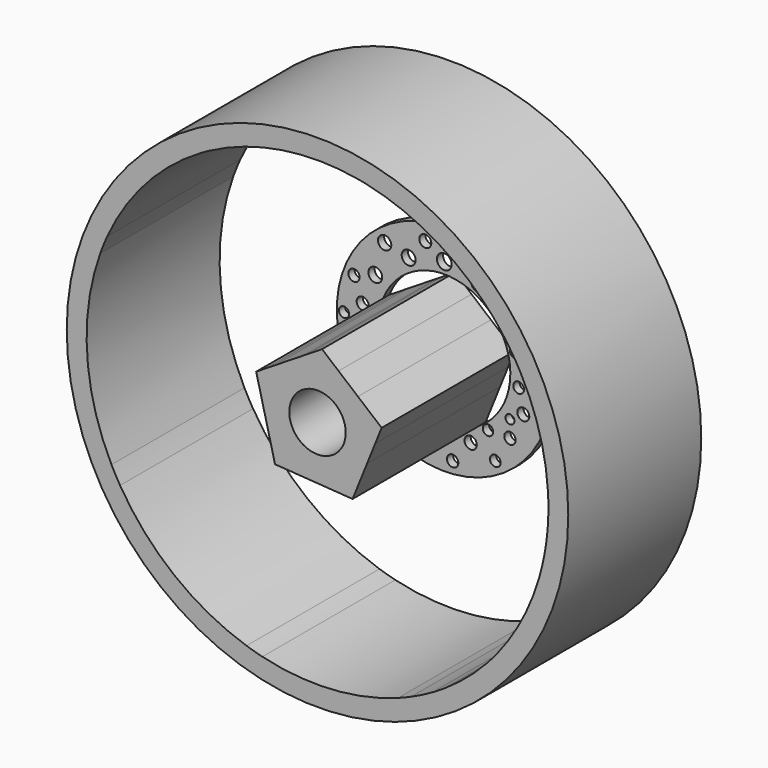
from build123d import *

# Parameters (mm, degrees)
F0_R     = 73.947957
F0_R_2   = 8.318346
F1_DEPTH = 49.022
F2_R     = 31.693771
F2_R_2   = 1.854577
F2_R_3   = 2.171348
F2_R_4   = 2.023965
F2_R_5   = 1.854576
F2_R_6   = 1.936135
F2_R_7   = 2.11728
F2_R_8   = 1.812423
F2_R_9   = 1.679623
F2_R_10  = 1.584917
F2_R_11  = 1.535376
F2_R_12  = 1.67962
F2_R_13  = 1.318732
F2_R_14  = 1.769262
F2_R_15  = 1.500368
F2_R_16  = 1.769263
F2_R_17  = 1.679622
F2_R_18  = 2.052404
F2_R_19  = 1.96585
F2_R_20  = 2.052406
F2_R_21  = 19.479258
F2_R_22  = 1.62108
F2_R_23  = 2.045332
F2_R_24  = 1.975654
F2_R_25  = 2.182443
F2_R_26  = 2.197887
F2_R_27  = 1.965846
F2_R_28  = 2.367195
F3_DEPTH = 2.286


with BuildPart() as f1:
    # F0 (on Front) → F1 (new body)
    with BuildSketch(Plane.XZ):
        Circle(F0_R)
        with BuildLine():
            ThreePointArc((67.949275, 4.275622), (68.050056, 2.138867), (68.083661, 0))
            ThreePointArc((68.083661, 0), (68.050056, -2.138867), (67.949275, -4.275622))
            ThreePointArc((67.949275, -4.275622), (67.88803, -5.157543), (67.815339, -6.038594))
            ThreePointArc((67.815339, -6.038594), (67.564616, -8.390925), (67.232321, -10.733125))
            ThreePointArc((67.232321, -10.733125), (66.957023, -12.334583), (66.643585, -13.929015))
            ThreePointArc((66.643585, -13.929015), (66.004106, -16.69859), (65.249581, -19.439059))
            ThreePointArc((65.249581, -19.439059), (60.317841, -31.577571), (53.152306, -42.546648))
            ThreePointArc((53.152306, -42.546648), (51.550811, -44.473573), (49.8795, -46.340267))
            ThreePointArc((49.8795, -46.340267), (44.032832, -51.927783), (37.564874, -56.782613))
            ThreePointArc((37.564874, -56.782613), (35.748791, -57.943152), (33.896886, -59.045627))
            ThreePointArc((33.896886, -59.045627), (30.788356, -60.724476), (27.596924, -62.239816))
            ThreePointArc((27.596924, -62.239816), (25.710967, -63.042296), (23.801709, -63.787644))
            ThreePointArc((23.801709, -63.787644), (3.94679, -67.969168), (-16.258673, -66.113844))
            ThreePointArc((-16.258673, -66.113844), (-18.610992, -65.490578), (-20.939535, -64.783646))
            ThreePointArc((-20.939535, -64.783646), (-42.236877, -53.398793), (-58.220271, -35.295679))
            ThreePointArc((-58.220271, -35.295679), (-59.531908, -33.035387), (-60.755837, -30.726424))
            ThreePointArc((-60.755837, -30.726424), (-67.956903, -4.15262), (-64.045007, 23.10026))
            ThreePointArc((-64.045007, 23.10026), (-63.07225, 25.637397), (-61.999031, 28.133699))
            ThreePointArc((-61.999031, 28.133699), (-50.614011, 45.536873), (-34.506619, 58.69138))
            ThreePointArc((-34.506619, 58.69138), (-33.177367, 59.452899), (-31.831318, 60.184317))
            ThreePointArc((-31.831318, 60.184317), (-10.489442, 67.27077), (11.996772, 67.018373))
            ThreePointArc((11.996772, 67.018373), (13.150442, 66.801578), (14.300202, 66.564924))
            ThreePointArc((14.300202, 66.564924), (33.103005, 59.494335), (49.023989, 47.244401))
            ThreePointArc((49.023989, 47.244401), (50.857029, 45.265301), (52.610231, 43.215142))
            ThreePointArc((52.610231, 43.215142), (54.541157, 40.751038), (56.356771, 38.200776))
            ThreePointArc((56.356771, 38.200776), (58.223331, 35.29063), (59.939755, 32.289482))
            ThreePointArc((59.939755, 32.289482), (65.460638, 18.716031), (67.949275, 4.275622))
        make_face(mode=Mode.SUBTRACT)
        Polygon((14.629133, -5.894366), (17.004089, 0), (18.91164, 4.734322), (11.921751, 10.588209), (6.20758, 15.373708), (1.341411, 19.449024), (-2.592439, 16.985674), (-4.164272, 16.001403), (-12.64108, 10.693282), (-14.831899, 9.321406), (-18.082603, 7.285837), (-16.258673, 0), (-15.299838, -3.830147), (-12.517074, -14.94613), (-8.887038, -15.196496), (2.893255, -16.008989), (8.554056, -16.399418), (10.346626, -16.523053), align=None)
        Circle(F0_R_2, mode=Mode.SUBTRACT)
    extrude(amount=F1_DEPTH)

    # F2 (on Front) → F3 (join)
    with BuildSketch(Plane.XZ):
        Circle(F2_R)
        with Locations((-22.312371, -17.594337)):
            Circle(F2_R_2, mode=Mode.SUBTRACT)
        with Locations((-12.876304, -24.867972)):
            Circle(F2_R_3, mode=Mode.SUBTRACT)
        with Locations((-14.05581, -18.577261)):
            Circle(F2_R_4, mode=Mode.SUBTRACT)
        with Locations((-3.047063, -23.688463)):
            Circle(F2_R_5, mode=Mode.SUBTRACT)
        with Locations((-27.030407, -7.961683)):
            Circle(F2_R_6, mode=Mode.SUBTRACT)
        with Locations((-19.756768, -12.679718)):
            Circle(F2_R_7, mode=Mode.SUBTRACT)
        with Locations((-21.9192, -3.047064)):
            Circle(F2_R_8, mode=Mode.SUBTRACT)
        with Locations((2.45731, -28.209915)):
            Circle(F2_R_9, mode=Mode.SUBTRACT)
        with Locations((15.038734, -24.081634)):
            Circle(F2_R_10, mode=Mode.SUBTRACT)
        with Locations((7.765097, -21.722617)):
            Circle(F2_R_8, mode=Mode.SUBTRACT)
        with Locations((12.876304, -16.807998)):
            Circle(F2_R_11, mode=Mode.SUBTRACT)
        with Locations((19.363599, -16.807998)):
            Circle(F2_R_12, mode=Mode.SUBTRACT)
        with Locations((19.363599, -11.893379)):
            Circle(F2_R_13, mode=Mode.SUBTRACT)
        with Locations((23.295296, -9.337776)):
            Circle(F2_R_14, mode=Mode.SUBTRACT)
        with Locations((21.919202, -2.850479)):
            Circle(F2_R_10, mode=Mode.SUBTRACT)
        with Locations((-29.58601, 0)):
            Circle(F2_R_15, mode=Mode.SUBTRACT)
        with Locations((-24.081636, 4.029988)):
            Circle(F2_R_16, mode=Mode.SUBTRACT)
        with Locations((-26.637234, 10.517284)):
            Circle(F2_R_17, mode=Mode.SUBTRACT)
        with Locations((-20.346522, 12.679718)):
            Circle(F2_R_18, mode=Mode.SUBTRACT)
        with Locations((-17.594337, 21.9192)):
            Circle(F2_R_19, mode=Mode.SUBTRACT)
        with Locations((-10.517286, 20.346524)):
            Circle(F2_R_20, mode=Mode.SUBTRACT)
        with Locations((-5.602666, 26.244065)):
            Circle(F2_R_16, mode=Mode.SUBTRACT)
        Circle(F2_R_21, mode=Mode.SUBTRACT)
        with Locations((20.936279, 5.995835)):
            Circle(F2_R_22, mode=Mode.SUBTRACT)
        with Locations((28.996253, 0)):
            Circle(F2_R_23, mode=Mode.SUBTRACT)
        with Locations((23.295296, 10.124115)):
            Circle(F2_R_24, mode=Mode.SUBTRACT)
        with Locations((16.807999, 14.645565)):
            Circle(F2_R_4, mode=Mode.SUBTRACT)
        with Locations((0, 22.705542)):
            Circle(F2_R_25, mode=Mode.SUBTRACT)
        with Locations((10.124114, 20.149937)):
            Circle(F2_R_26, mode=Mode.SUBTRACT)
        with Locations((5.995836, 26.833819)):
            Circle(F2_R_27, mode=Mode.SUBTRACT)
        with Locations((16.807999, 20.149937)):
            Circle(F2_R_28, mode=Mode.SUBTRACT)
    extrude(amount=F3_DEPTH)


solid = f1.part
